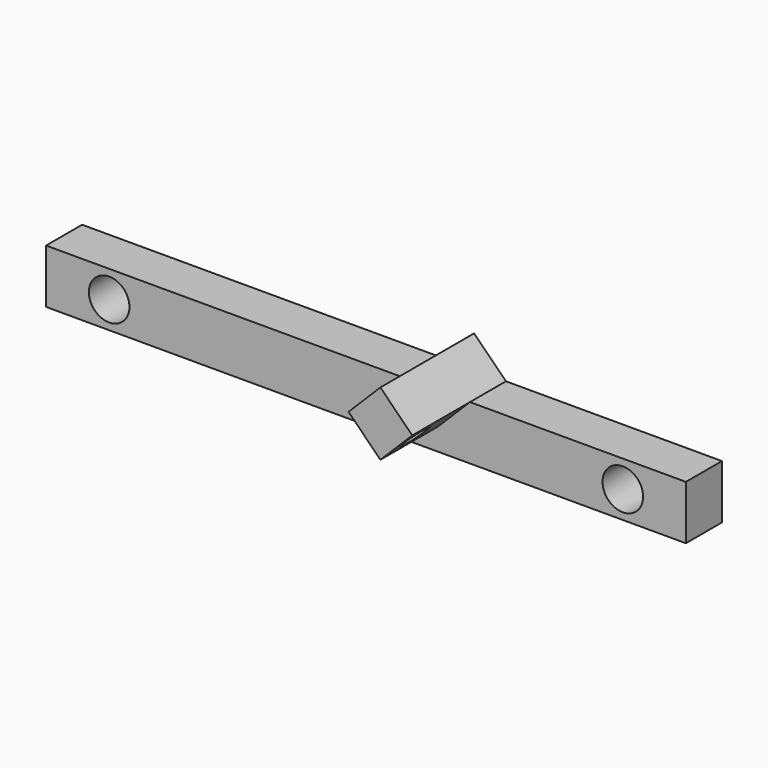
from build123d import *

# Parameters (mm, degrees)
F0_R     = 2.25
F1_DEPTH = 5
F3_DEPTH = 8
F4_R     = 1.575
F5_DEPTH = 35.7601449816


with BuildPart() as f1:
    # F0 (on Front) → F1 (new body)
    with BuildSketch(Plane.XZ):
        Polygon((35.5, -3), (35.5, 3), (11.5355339059, 3), (8, -0.5355339059), (4.4644660941, 3), (-35.5, 3), (-35.5, -3), align=None)
        with Locations((-28.5, 0)):
            Circle(F0_R, mode=Mode.SUBTRACT)
        with Locations((28.5, 0)):
            Circle(F0_R, mode=Mode.SUBTRACT)
        Polygon((8, -0.5355339059), (11.5355339059, 3), (4.4644660941, 3), align=None)
        Polygon((4.4644660941, 3), (11.5355339059, 3), (8, 6.5355339059), align=None)
    extrude(amount=F1_DEPTH)

    # F2 (on face) → F3 (join)
    with BuildSketch(Plane.XZ.offset(5)):
        Polygon((11.5355339059, 3), (8, 6.5355339059), (4.4644660941, 3), (8, -0.5355339059), align=None)
    extrude(amount=F3_DEPTH)

    # F4 (on face) → F5 (cut, through all)
    with BuildSketch(Plane(origin=(4.267766953, 0, -4.267766953), x_dir=(0, 1, 0), z_dir=(0.7071067812, 0, -0.7071067812))):
        with Locations((-10.425, 7.7781745931)):
            Circle(F4_R)
    extrude(amount=-F5_DEPTH, mode=Mode.SUBTRACT)


solid = f1.part
